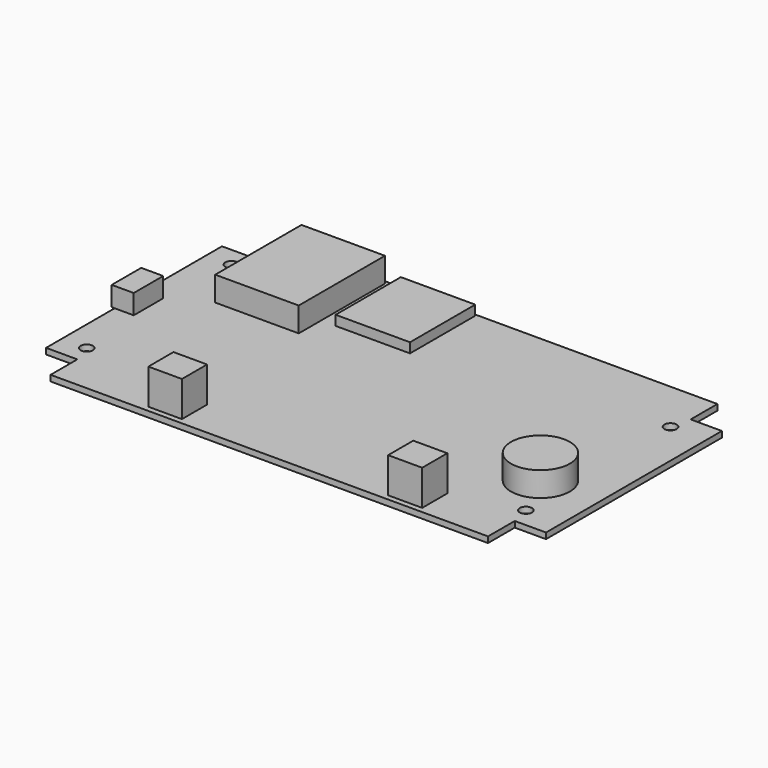
from build123d import *

# Parameters (mm, degrees)
SKETCH033_W     = 101.85
SKETCH033_H     = 58.42
PAD011_DEPTH    = 1.2
SKETCH034_W     = 6.366
SKETCH034_H     = 6.811
POCKET017_DEPTH = 1.201
SKETCH035_R     = 1.25
POCKET018_DEPTH = 1.201
SKETCH036_R     = 6
PAD012_DEPTH    = 5
SKETCH037_W     = 6.84
SKETCH037_H     = 6.4
SKETCH037_W_2   = 6.94
PAD013_DEPTH    = 7.2
SKETCH039_W     = 17.01
SKETCH039_H     = 21.96
PAD014_DEPTH    = 5
SKETCH038_W     = 15.16
SKETCH038_H     = 16.61
PAD015_DEPTH    = 2
SKETCH040_W     = 4.49
SKETCH040_H     = 7.51
PAD016_DEPTH    = 4


with BuildPart() as part:
    # Sketch033 → Pad011 (new body)
    with BuildSketch(Plane.XY):
        with Locations((50.925, 29.21)):
            Rectangle(SKETCH033_W, SKETCH033_H)
    extrude(amount=PAD011_DEPTH)

    # Sketch034 (on Face6 of Pad011) → Pocket017 (cut, through all)
    with BuildSketch(Plane.XY.offset(1.2)):
        with Locations((3.183, 55.0145)):
            Rectangle(SKETCH034_W, SKETCH034_H)
        with Locations((98.667, 55.0145)):
            Rectangle(SKETCH034_W, SKETCH034_H)
        with Locations((98.667, 3.4055)):
            Rectangle(SKETCH034_W, SKETCH034_H)
        with Locations((3.183, 3.4055)):
            Rectangle(SKETCH034_W, SKETCH034_H)
    extrude(amount=-POCKET017_DEPTH, mode=Mode.SUBTRACT)

    # Sketch035 (on Face4 of Pocket017) → Pocket018 (cut, through all)
    with BuildSketch(Plane.XY.offset(1.2)):
        with Locations((5.105, 47.625)):
            Circle(SKETCH035_R)
        with Locations((94.564, 47.625)):
            Circle(SKETCH035_R)
        with Locations((94.564, 10.795)):
            Circle(SKETCH035_R)
        with Locations((5.105, 10.795)):
            Circle(SKETCH035_R)
    extrude(amount=-POCKET018_DEPTH, mode=Mode.SUBTRACT)

    # Sketch036 (on Face4 of Pocket018) → Pad012 (join)
    with BuildSketch(Plane.XY.offset(1.2)):
        with Locations((90, 20.2)):
            Circle(SKETCH036_R)
    extrude(amount=PAD012_DEPTH)

    # Sketch037 (on Face4 of Pocket018) → Pad013 (join)
    with BuildSketch(Plane.XY.offset(1.2)):
        with Locations((28.8, 4.33)):
            Rectangle(SKETCH037_W, SKETCH037_H)
        with Locations((77.7, 4.33)):
            Rectangle(SKETCH037_W_2, SKETCH037_H)
    extrude(amount=PAD013_DEPTH)

    # Sketch039 (on Face4 of Pocket018) → Pad014 (join)
    with BuildSketch(Plane.XY.offset(1.2)):
        with Locations((19.775, 46.78)):
            Rectangle(SKETCH039_W, SKETCH039_H)
    extrude(amount=PAD014_DEPTH)

    # Sketch038 (on Face4 of Pocket018) → Pad015 (join)
    with BuildSketch(Plane.XY.offset(1.2)):
        with Locations((38.83, 49.785)):
            Rectangle(SKETCH038_W, SKETCH038_H)
    extrude(amount=PAD015_DEPTH)

    # Sketch040 (on Face4 of Pad015) → Pad016 (join)
    with BuildSketch(Plane.XY.offset(1.2)):
        with Locations((1.645, 28.025)):
            Rectangle(SKETCH040_W, SKETCH040_H)
    extrude(amount=PAD016_DEPTH)


with BuildPart() as part_1:
    # Body004 placement: moved
    add(part.part.moved(Location((0, 0, 4))))


solid = part_1.part
